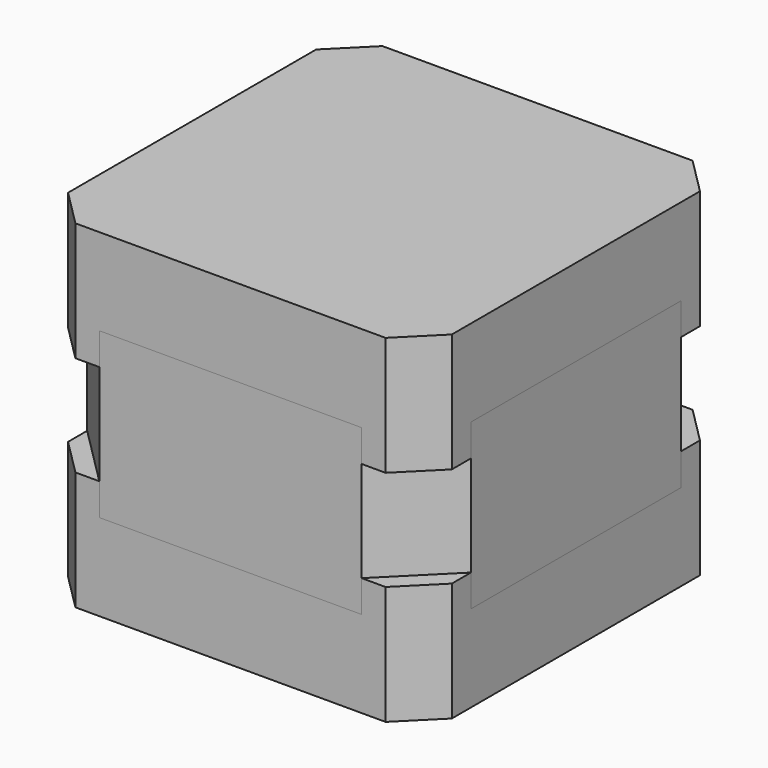
from build123d import *

# Parameters (mm, degrees)
F1_DEPTH = 13
F4_DEPTH = 18
F8_DEPTH = 13


with BuildPart() as f1:
    # F0 (on Top) → F1 (new body)
    with BuildSketch(Plane.XY):
        Polygon((-16.971634, -21), (16.971634, -21), (21, -16.971634), (21, 16.971634), (16.971634, 21), (-16.971634, 21), (-21, 16.971634), (-21, -16.971634), align=None)
    extrude(amount=F1_DEPTH)


with BuildPart() as f4:
    # F3 (on offset) → F4 (new body)
    with BuildSketch(Plane.XY.offset(9.5)):
        Polygon((-14.355339, -21), (14.355339, -21), (21, -14.355339), (21, 14.355339), (14.355339, 21), (-14.355339, 21), (-21, 14.355339), (-21, -14.355339), align=None)
    extrude(amount=F4_DEPTH)


with BuildPart() as f1_1:
    add(f1.part)

    # F5: cut F4
    add(f4.part, mode=Mode.SUBTRACT)


with BuildPart() as f8:
    # F7 (on offset) → F8 (new body)
    with BuildSketch(Plane.XY.offset(24)):
        Polygon((-16.971634, -21), (16.971634, -21), (21, -16.971634), (21, 16.971634), (16.971634, 21), (-16.971634, 21), (-21, 16.971634), (-21, -16.971634), align=None)
    extrude(amount=F8_DEPTH)

    # F9: cut F4
    add(f4.part, mode=Mode.SUBTRACT)


solid = Compound([f4.part, f1_1.part, f8.part])
